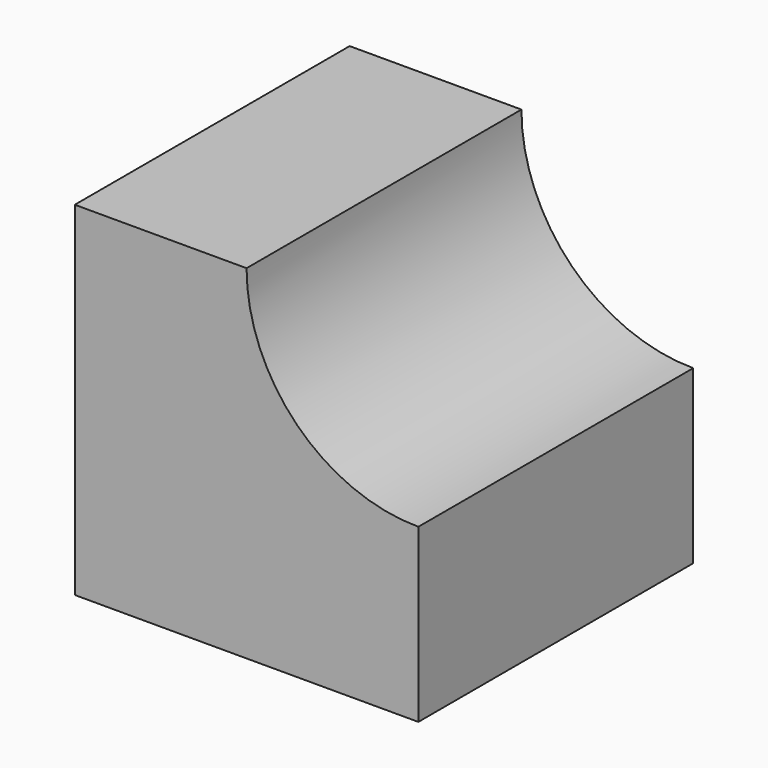
from build123d import *

# Parameters (mm, degrees)
F1_DEPTH = 50.8


with BuildPart() as f1:
    # F0 (on Front) → F1 (new body)
    with BuildSketch(Plane.XZ):
        Polygon((-50.8, 0), (0, 0), (0, 25.4), (-25.4, 25.4), (-25.4, 50.8), (-50.8, 50.8), align=None)
        with BuildLine():
            Line((-25.4, 25.4), (0, 25.4))
            ThreePointArc((0, 25.4), (-17.960512, 32.839488), (-25.4, 50.8))
            Line((-25.4, 50.8), (-25.4, 25.4))
        make_face()
    extrude(amount=F1_DEPTH)


solid = f1.part
